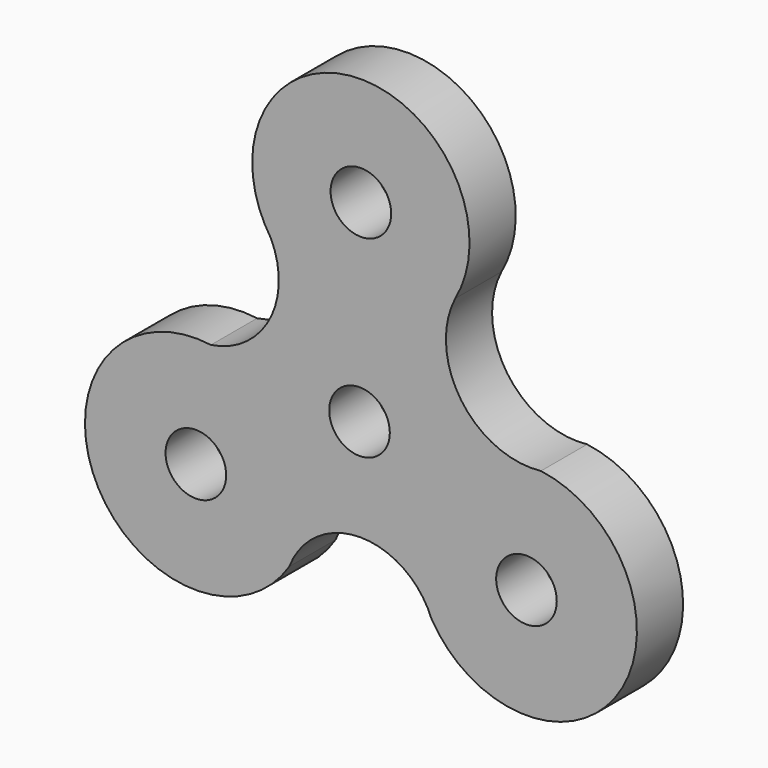
from build123d import *

# Parameters (mm, degrees)
F0_R     = 4
F1_DEPTH = 7.62


with BuildPart() as f1:
    # F0 (on Front) → F1 (new body)
    with BuildSketch(Plane.XZ):
        with BuildLine():
            ThreePointArc((23.948684, 2.045867), (13.409544, 6.85438), (12.636243, 18.412808))
            ThreePointArc((12.636243, 18.412808), (-0.386737, 39.851422), (-11.673477, 17.450045))
            ThreePointArc((-11.673477, 17.450045), (-11.886977, 7.988479), (-19.616257, 2.527248))
            ThreePointArc((-19.616257, 2.527248), (-34.889165, -18.119186), (-9.266574, -19.856948))
            ThreePointArc((-9.266574, -19.856948), (0.120346, -13.41002), (9.507267, -19.856948))
            ThreePointArc((9.507267, -19.856948), (34.208653, -20.431262), (23.948684, 2.045867))
        make_face()
        with Locations((-21.602286, -11.975791)):
            Circle(F0_R, mode=Mode.SUBTRACT)
        Circle(F0_R, mode=Mode.SUBTRACT)
        with Locations((22.03786, -12.406563)):
            Circle(F0_R, mode=Mode.SUBTRACT)
        with Locations((0.180789, 25.521427)):
            Circle(F0_R, mode=Mode.SUBTRACT)
    extrude(amount=F1_DEPTH)


solid = f1.part
